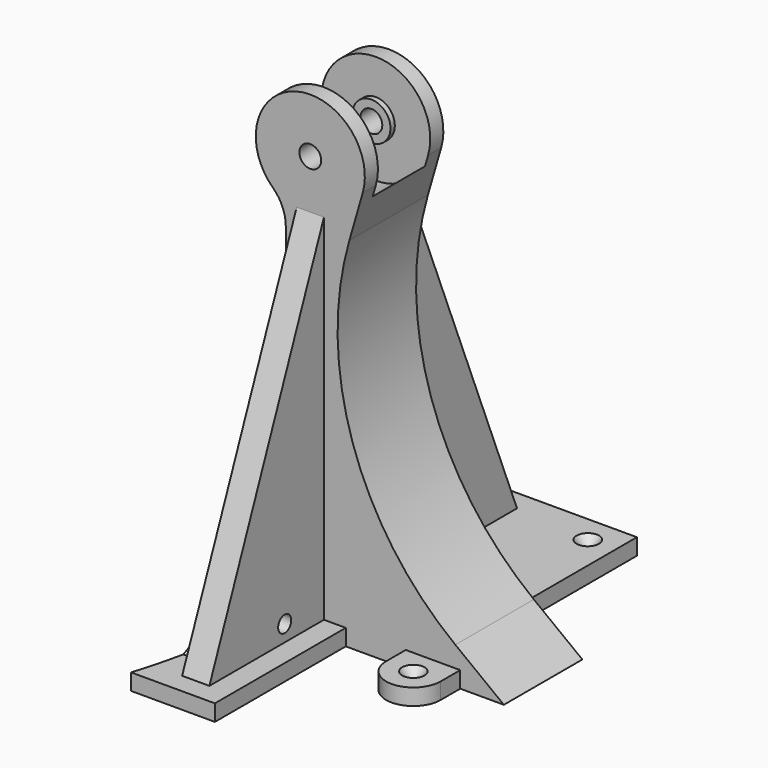
from build123d import *

# Parameters (mm, degrees)
CYLINDER059_R              = 1.5
CYLINDER059_DEPTH          = 45
CYLINDER060_R              = 1.5
CYLINDER060_DEPTH          = 45
PRISM006_DEPTH             = 3
PRISM007_DEPTH             = 3
CYLINDER061_R              = 3
CYLINDER061_DEPTH          = 5
CYLINDER043_R              = 4
CYLINDER043_DEPTH          = 40
CYLINDER045_R              = 7
CYLINDER045_DEPTH          = 2
CYLINDER044_R              = 7
CYLINDER044_DEPTH          = 2
EXTRUDE010_DEPTH           = 12
EXTRUDE023_DEPTH           = 24
CYLINDER046_R              = 1.6
CYLINDER046_DEPTH          = 10
CYLINDER062_R              = 3
CYLINDER062_DEPTH          = 5
BOX012_W                   = 31
BOX012_H                   = 60
BOX012_DEPTH               = 6
BOX011_W                   = 61
BOX011_H                   = 60
BOX011_DEPTH               = 6
EXTRUDE015_DEPTH           = 6
EXTRUDE015_PLACEMENT_ANGLE = 90
EXTRUDE011_DEPTH           = 10
EXTRUDE024_DEPTH           = 10
EXTRUDE009_DEPTH           = 18


with BuildPart() as cilindro059:
    # Cylinder059 → Cylinder059 (new body)
    with BuildSketch(Plane(origin=(98, -36, -87), x_dir=(0, 0, 1), z_dir=(-1, 0, 0))):
        Circle(CYLINDER059_R)
    extrude(amount=CYLINDER059_DEPTH)


with BuildPart() as cilindro060:
    # Cylinder060 → Cylinder060 (new body)
    with BuildSketch(Plane(origin=(98, 36, -87), x_dir=(0, 0, 1), z_dir=(-1, 0, 0))):
        Circle(CYLINDER060_R)
    extrude(amount=CYLINDER060_DEPTH)


with BuildPart() as prisma006:
    # Prism006 → Prism006 (new body)
    with BuildSketch(Plane(origin=(65, -36, -87), x_dir=(0, 0, 1), z_dir=(-1, 0, 0))):
        Polygon((3, 0), (1.5, 2.598076), (-1.5, 2.598076), (-3, 0), (-1.5, -2.598076), (1.5, -2.598076), align=None)
    extrude(amount=PRISM006_DEPTH)


with BuildPart() as prisma007:
    # Prism007 → Prism007 (new body)
    with BuildSketch(Plane(origin=(65, 36, -87), x_dir=(0, 0, 1), z_dir=(-1, 0, 0))):
        Polygon((3, 0), (1.5, 2.598076), (-1.5, 2.598076), (-3, 0), (-1.5, -2.598076), (1.5, -2.598076), align=None)
    extrude(amount=PRISM007_DEPTH)


with BuildPart() as cilindro061:
    # Cylinder061 → Cylinder061 (new body)
    with BuildSketch(Plane(origin=(89, -36, -87), x_dir=(0, 0, 1), z_dir=(-1, 0, 0))):
        Circle(CYLINDER061_R)
    extrude(amount=CYLINDER061_DEPTH)


with BuildPart() as cilindro043:
    # Cylinder043 → Cylinder043 (new body)
    with BuildSketch(Plane(origin=(83, -20, 55), x_dir=(1, 0, 0), z_dir=(0, 1, 0))):
        Circle(CYLINDER043_R)
    extrude(amount=CYLINDER043_DEPTH)


with BuildPart() as cilindro045:
    # Cylinder045 → Cylinder045 (new body)
    with BuildSketch(Plane(origin=(83, 10, 55), x_dir=(1, 0, 0), z_dir=(0, 1, 0))):
        Circle(CYLINDER045_R)
    extrude(amount=CYLINDER045_DEPTH)


with BuildPart() as fusion020:
    # Cylinder044 → Cylinder044 (new body)
    with BuildSketch(Plane(origin=(83, -12, 55), x_dir=(1, 0, 0), z_dir=(0, 1, 0))):
        Circle(CYLINDER044_R)
    extrude(amount=CYLINDER044_DEPTH)

    # Fusion020: union Cilindro045
    add(cilindro045.part)


with BuildPart() as cut012:
    # Sketch010 → Extrude010 (new body, symmetric)
    with BuildSketch(Plane.XZ):
        with BuildLine():
            ThreePointArc((77.817442, 35.68314), (89.140517, 35.965977), (98.494144, 42.353597))
            Line((98.494144, 42.353597), (108, 54))
            Line((108, 54), (108, 85))
            Line((58, 85), (108, 85))
            Line((58, 41), (58, 85))
            Line((77.817442, 35.68314), (58, 41))
        make_face()
    extrude(amount=EXTRUDE010_DEPTH, both=True)

    # Cut012: cut Fusion020
    add(fusion020.part, mode=Mode.SUBTRACT)


with BuildPart() as extrude023:
    # Sketch015 → Extrude023 (new body)
    with BuildSketch(Plane.XY.offset(-75)):
        with BuildLine():
            Line((-74, 21), (-74, -21))
            ThreePointArc((-74, -21), (-67.384986, -70.729267), (-48, -117))
            Line((-48, -117), (48, -117))
            ThreePointArc((48, -117), (67.384986, -70.729267), (74, -21))
            Line((74, 21), (74, -21))
            ThreePointArc((74, 21), (67.384986, 70.729267), (48, 117))
            Line((-48, 117), (48, 117))
            ThreePointArc((-48, 117), (-67.384986, 70.729267), (-74, 21))
        make_face()
    extrude(amount=-EXTRUDE023_DEPTH)


with BuildPart() as cono:
    # Cone → Cone (revolve)
    with BuildSketch(Plane(origin=(0, 0, -96), x_dir=(1, 0, 0), z_dir=(0, -1, 0))):
        Polygon((0, 0), (1.6, 0), (4.1, 3), (0, 3), align=None)
    revolve(axis=Axis((0, 0, -96), (0, 0, 1)))


with BuildPart() as cilindro046:
    # Cylinder046 → Cylinder046 (new body)
    with BuildSketch(Plane.XY.offset(-106)):
        Circle(CYLINDER046_R)
    extrude(amount=CYLINDER046_DEPTH)


with BuildPart() as fusion029:
    # Fusion029 base: copy of Cilindro046
    add(cilindro046.part)

    # Fusion029: union Cono
    add(cono.part)


with BuildPart() as fusion029_1:
    # Fusion029 placement: moved
    add(fusion029.part.moved(Location((128, -27, 0))))


with BuildPart() as fusion028:
    # Fusion028 base: copy of Cilindro046
    add(cilindro046.part)

    # Fusion028: union Cono
    add(cono.part)


with BuildPart() as fusion028_1:
    # Fusion028 placement: moved
    add(fusion028.part.moved(Location((116, 68, 0))))


with BuildPart() as fusion052:
    # Cylinder062 → Cylinder062 (new body)
    with BuildSketch(Plane(origin=(89, 36, -87), x_dir=(0, 0, 1), z_dir=(-1, 0, 0))):
        Circle(CYLINDER062_R)
    extrude(amount=CYLINDER062_DEPTH)

    # Fusion052: union Cilindro059, Cilindro060, Prisma006, Prisma007, Cilindro061, Cilindro043, Cut012, Extrude023, Fusion029, Fusion028
    add(cilindro059.part)
    add(cilindro060.part)
    add(prisma006.part)
    add(prisma007.part)
    add(cilindro061.part)
    add(cilindro043.part)
    add(cut012.part)
    add(extrude023.part)
    add(fusion029_1.part)
    add(fusion028_1.part)


with BuildPart() as cubo011:
    # Box012 → Box012 (new body)
    with BuildSketch(Plane(origin=(65, -78, -99), x_dir=(1, 0, 0), z_dir=(0, 0, 1))):
        with Locations((15.5, 30)):
            Rectangle(BOX012_W, BOX012_H)
    extrude(amount=BOX012_DEPTH)


with BuildPart() as cubo010:
    # Box011 → Box011 (new body)
    with BuildSketch(Plane(origin=(65, 18, -99), x_dir=(1, 0, 0), z_dir=(0, 0, 1))):
        with Locations((30.5, 30)):
            Rectangle(BOX011_W, BOX011_H)
    extrude(amount=BOX011_DEPTH)


with BuildPart() as fusion024:
    # Sketch012 → Extrude015 (new body)
    with BuildSketch(Plane.XY.offset(-99)):
        with BuildLine():
            ThreePointArc((0, 10), (-10, 0), (0, -10))
            Line((20, -10), (0, -10))
            Line((20, 10), (20, -10))
            Line((0, 10), (20, 10))
        make_face()
    extrude(amount=EXTRUDE015_DEPTH)


with BuildPart() as fusion024_1:
    # Extrude015 placement: moved
    add(fusion024.part.moved(Location((128, -27, 0))).rotate(Axis((128, -27, 0), (0, 0, 1)), EXTRUDE015_PLACEMENT_ANGLE))

    # Fusion024: union Cubo011, Cubo010
    add(cubo011.part)
    add(cubo010.part)


with BuildPart() as extrude011:
    # Sketch011 → Extrude011 (new body)
    with BuildSketch(Plane.YZ.offset(78)):
        Polygon((-70.523409, -93), (-18, -93), (-18, 37), align=None)
        Polygon((18, -93), (18, 37), (70.523409, -93), align=None)
    extrude(amount=EXTRUDE011_DEPTH)


with BuildPart() as extrude024:
    # Sketch016 → Extrude024 (new body)
    with BuildSketch(Plane.YZ.offset(70)):
        Polygon((-40, -78), (-60, -93), (60, -93), (40, -78), align=None)
    extrude(amount=EXTRUDE024_DEPTH)


with BuildPart() as soporte_eje:
    # Sketch009 → Extrude009 (new body, symmetric)
    with BuildSketch(Plane.XZ):
        with BuildLine():
            Line((74, -99), (74, 29.524522))
            ThreePointArc((74, 29.524522), (72.771088, 35.470709), (69.285714, 40.442584))
            ThreePointArc((102.212801, 49.444079), (77.725993, 74.292093), (69.285714, 40.442584))
            Line((102.212801, 49.444079), (97.329592, 32.557567))
            ThreePointArc((97.329592, 32.557567), (98.526548, -32.428153), (136.199214, -85.393678))
            Line((154, -99), (136.199214, -85.393678))
            Line((74, -99), (154, -99))
        make_face()
    extrude(amount=EXTRUDE009_DEPTH, both=True)

    # Fusion053: union Fusion024, Extrude011, Extrude024
    add(fusion024_1.part)
    add(extrude011.part)
    add(extrude024.part)

    # Cut020: cut Fusion052
    add(fusion052.part, mode=Mode.SUBTRACT)


solid = soporte_eje.part
